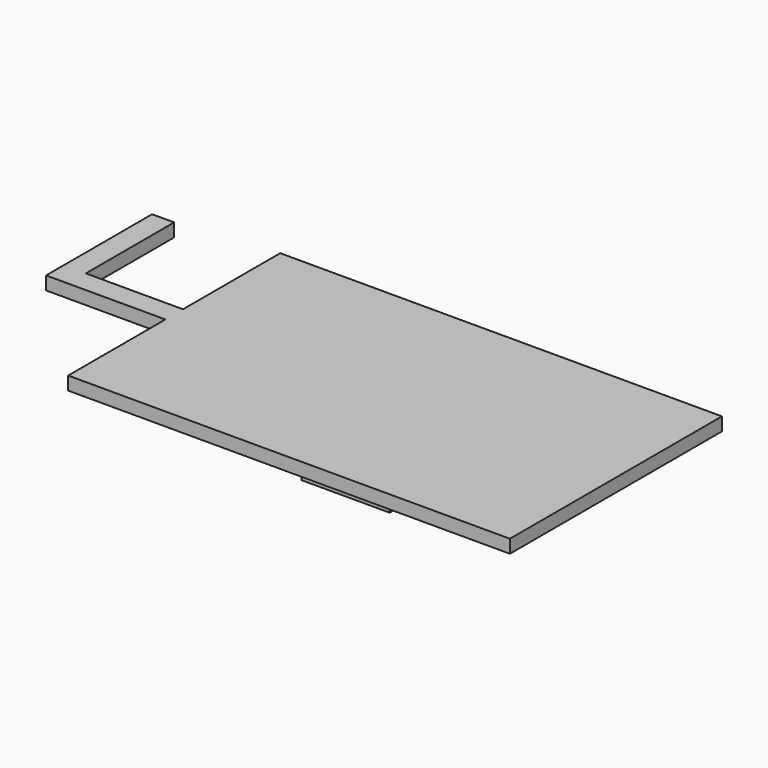
from build123d import *

# Parameters (mm, degrees)
F0_W     = 22
F0_H     = 5
F1_DEPTH = 3
F3_DEPTH = 10
F4_R     = 5


with BuildPart() as f1:
    # F0 (on Top) → F1 (new body)
    with BuildSketch(Plane.XY):
        Polygon((49.618883726, 30.5037726198), (-50.381116274, 30.5037726198), (-50.381116274, 3.0037726198), (-50.381116274, -1.9962273802), (-50.381116274, -29.4962273802), (49.618883726, -29.4962273802), align=None)
        with Locations((-61.381116274, 0.5037726198)):
            Rectangle(F0_W, F0_H)
        Polygon((-72.381116274, -1.9962273802), (-72.381116274, 3.0037726198), (-72.381116274, 28.0037726198), (-77.381116274, 28.0037726198), (-77.381116274, -1.9962273802), align=None)
    extrude(amount=F1_DEPTH)

    # F2 (on Right) → F3 (join, symmetric)
    with BuildSketch(Plane.YZ):
        with BuildLine():
            ThreePointArc((-11, -11), (0, 0), (11, -11))
            Line((11, -11), (14, -11))
            ThreePointArc((14, -11), (0, 3), (-14, -11))
            Line((-14, -11), (-11, -11))
        make_face()
    extrude(amount=F3_DEPTH, both=True)

    # F4
    f4_edges = [f1.edges().sort_by_distance(p)[0] for p in [
        (0, -8.660254, 0),
        (0, 8.660254, 0),
    ]]
    fillet(f4_edges, radius=F4_R)


solid = f1.part
